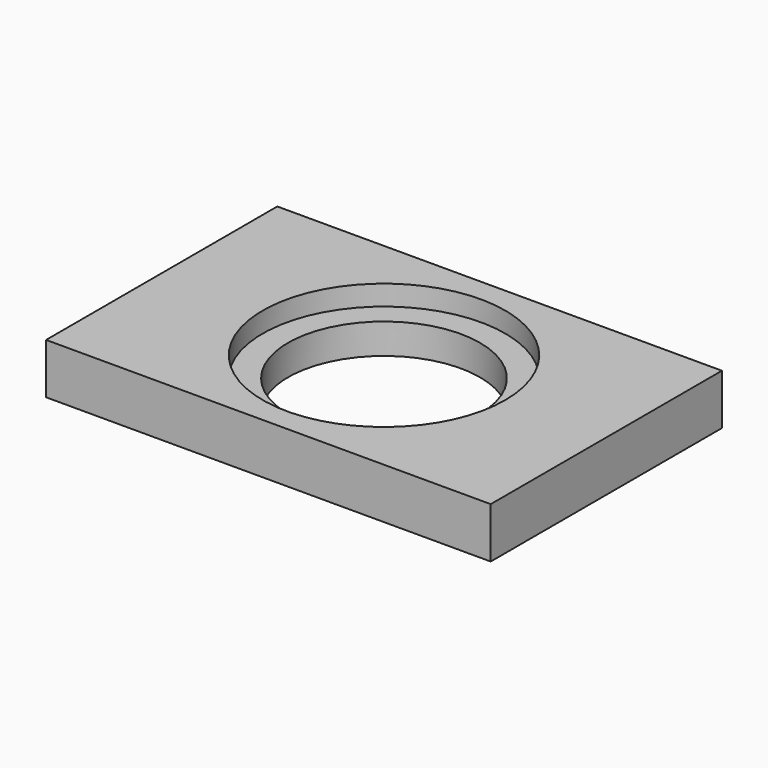
from build123d import *

# Parameters (mm, degrees)
F0_W     = 44
F0_H     = 28.6
F0_R     = 12
F1_DEPTH = 5
F0_R_2   = 9.5
F2_DEPTH = 3


with BuildPart() as f1:
    # F0 (on Top) → F1 (new body)
    with BuildSketch(Plane.XY):
        with Locations((22, 14.3)):
            Rectangle(F0_W, F0_H)
        with Locations((22, 14.3)):
            Circle(F0_R, mode=Mode.SUBTRACT)
    extrude(amount=F1_DEPTH)

    # F0 (on Top) → F2 (join)
    with BuildSketch(Plane.XY):
        with Locations((22, 14.3)):
            Circle(F0_R)
        with Locations((22, 14.3)):
            Circle(F0_R_2, mode=Mode.SUBTRACT)
    extrude(amount=F2_DEPTH)


solid = f1.part
